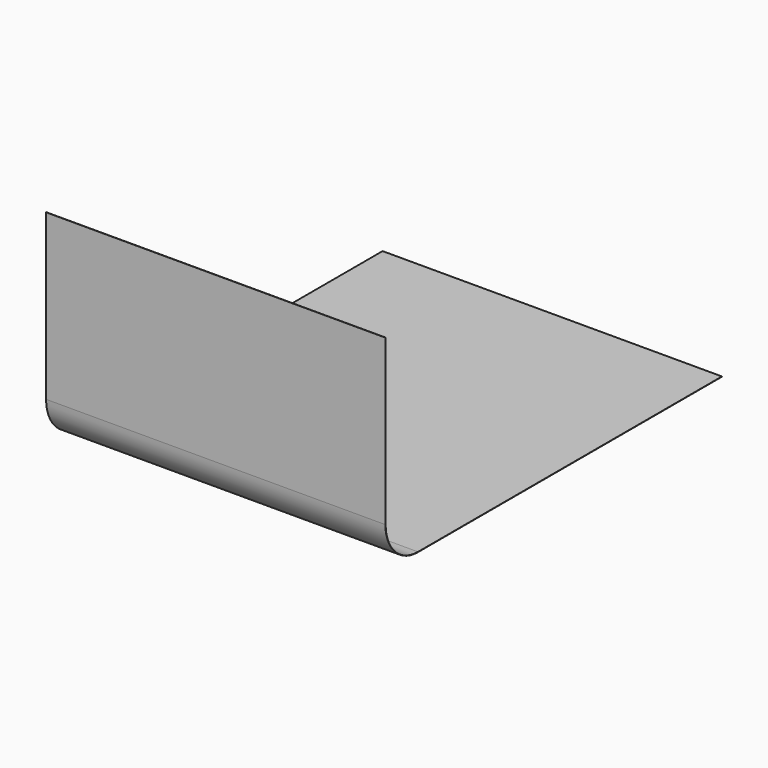
from build123d import *

# Parameters (mm, degrees)
F1_DEPTH = 268


with BuildPart() as f1:
    # F0 (on Right) → F1 (new body)
    with BuildSketch(Plane.YZ):
        with BuildLine():
            ThreePointArc((32, 0), (9.372583, 9.372583), (0, 32))
            Line((0, 32), (0, 162))
            Line((0, 162), (-0.2, 162))
            Line((-0.2, 162), (-0.2, 32))
            ThreePointArc((-0.2, 32), (9.231162, 9.231162), (32, -0.2))
            Line((32, -0.2), (332, -0.2))
            Line((332, -0.2), (332, 0))
            Line((332, 0), (32, 0))
        make_face()
    extrude(amount=F1_DEPTH)


solid = f1.part
